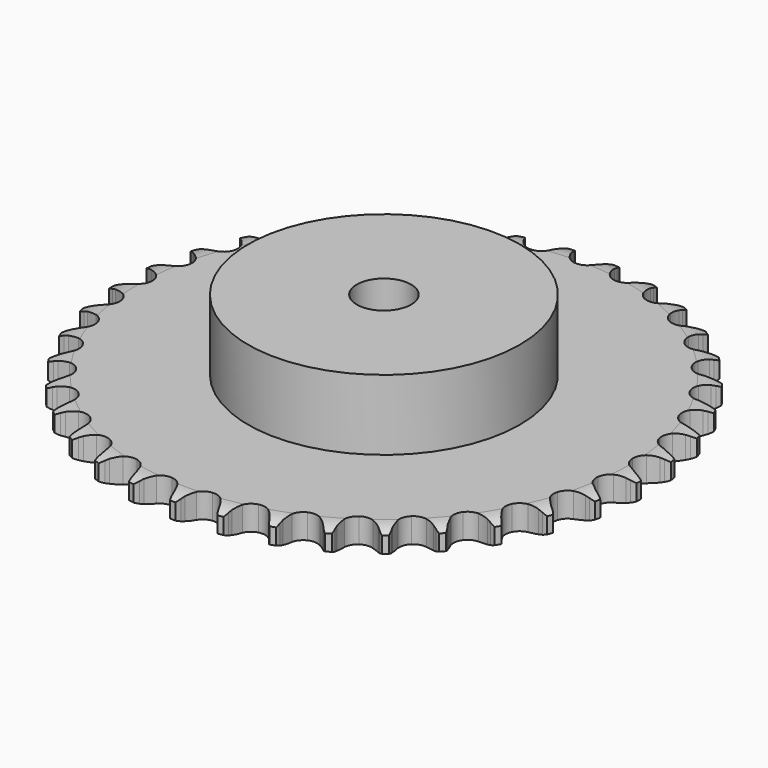
from build123d import *

# Parameters (mm, degrees)
PAD_DEPTH         = 9.1
SKETCH001_R       = 50
PAD001_DEPTH      = 35
SKETCH002_R       = 10
POCKET_DEPTH      = 0.001
POCKET_DEPTH_BACK = 35.001


with BuildPart() as part:
    # Sprocket → Pad (new body)
    with BuildSketch(Plane.XY):
        with BuildLine():
            ThreePointArc((-8.361214, 98.237154), (-7.231776, 96.838218), (-6.432471, 95.227702))
            Line((-6.432471, 95.227702), (-5.936919, 93.876112))
            ThreePointArc((-5.936919, 93.876112), (-5.153166, 92.136792), (-4.128134, 90.527815))
            ThreePointArc((-4.128134, 90.527815), (-2.310205, 89.000564), (0, 88.452555))
            ThreePointArc((0, 88.452555), (2.310205, 89.000564), (4.128134, 90.527815))
            ThreePointArc((4.128134, 90.527815), (5.153166, 92.136792), (5.936919, 93.876112))
            Line((5.936919, 93.876112), (6.432471, 95.227702))
            ThreePointArc((6.432471, 95.227702), (7.231776, 96.838218), (8.361214, 98.237154))
            ThreePointArc((8.361214, 98.237154), (9.237985, 96.667465), (9.753614, 94.945031))
            Line((9.753614, 94.945031), (10.013618, 93.529133))
            ThreePointArc((10.013618, 93.529133), (10.492151, 91.682378), (11.23052, 89.923312))
            ThreePointArc((11.23052, 89.923312), (12.764193, 88.110798), (14.948554, 87.180246))
            ThreePointArc((14.948554, 87.180246), (17.318143, 87.329945), (19.36803, 88.527996))
            Line((19.36803, 88.527996), (21.716662, 91.522445))
            ThreePointArc((21.716662, 91.522445), (22.058144, 92.156372), (22.433505, 92.770845))
            ThreePointArc((22.433505, 92.770845), (23.493492, 94.223112), (24.843105, 95.41105))
            ThreePointArc((24.843105, 95.41105), (25.441986, 93.715764), (25.659105, 91.930964))
            Line((25.659105, 91.930964), (25.676082, 90.491492))
            ThreePointArc((25.676082, 90.491492), (25.835628, 88.590428), (26.266093, 86.73188))
            ThreePointArc((26.266093, 86.73188), (27.471389, 84.686245), (29.467066, 83.399919))
            ThreePointArc((29.467066, 83.399919), (31.82787, 83.147003), (34.050742, 83.981389))
            Line((34.050742, 83.981389), (36.871656, 86.535844))
            ThreePointArc((36.871656, 86.535844), (37.31536, 87.102942), (37.789169, 87.64514))
            ThreePointArc((37.789169, 87.64514), (39.079343, 88.897379), (40.610305, 89.840143))
            ThreePointArc((40.610305, 89.840143), (40.914067, 88.068032), (40.826431, 86.272211))
            Line((40.826431, 86.272211), (40.599891, 84.850576))
            ThreePointArc((40.599891, 84.850576), (40.435861, 82.949893), (40.546038, 81.04533))
            ThreePointArc((40.546038, 81.04533), (41.388283, 78.825424), (43.137864, 77.220329))
            ThreePointArc((43.137864, 77.220329), (45.421967, 76.572073), (47.753877, 77.01879))
            Line((47.753877, 77.01879), (50.965919, 79.059765))
            ThreePointArc((50.965919, 79.059765), (51.499081, 79.543719), (52.057707, 79.998044))
            ThreePointArc((52.057707, 79.998044), (53.540952, 81.014231), (55.209221, 81.6847))
            ThreePointArc((55.209221, 81.6847), (55.209125, 79.886742), (54.819254, 78.131564))
            Line((54.819254, 78.131564), (54.355715, 76.768663))
            ThreePointArc((54.355715, 76.768663), (53.872828, 74.923041), (53.659548, 73.027253))
            ThreePointArc((53.659548, 73.027253), (54.114512, 70.696938), (55.567664, 68.819251))
            ThreePointArc((55.567664, 68.819251), (57.709356, 67.794304), (60.083219, 67.8405))
            Line((60.083219, 67.8405), (63.593986, 69.30928))
            ThreePointArc((63.593986, 69.30928), (64.201268, 69.696168), (64.828639, 70.04955))
            ThreePointArc((64.828639, 70.04955), (66.462285, 70.80045), (68.219868, 71.179336))
            ThreePointArc((68.219868, 71.179336), (67.915917, 69.407257), (67.235028, 67.743213))
            Line((67.235028, 67.743213), (66.547825, 66.478255))
            ThreePointArc((66.547825, 66.478255), (65.759972, 64.740789), (65.229369, 62.908315))
            ThreePointArc((65.229369, 62.908315), (65.283964, 60.53463), (66.398884, 58.438368))
            ThreePointArc((66.398884, 58.438368), (68.336552, 57.066216), (70.684077, 56.710563))
            Line((70.684077, 56.710563), (74.392569, 57.564893))
            ThreePointArc((74.392569, 57.564893), (75.056501, 57.843585), (75.73457, 58.085858))
            ThreePointArc((75.73457, 58.085858), (77.47162, 58.549869), (79.267953, 58.626272))
            ThreePointArc((79.267953, 58.626272), (78.668892, 56.931051), (77.716572, 55.406014))
            Line((77.716572, 55.406014), (76.825475, 54.275389))
            ThreePointArc((76.825475, 54.275389), (75.755321, 52.696062), (74.922661, 50.979619))
            ThreePointArc((74.922661, 50.979619), (74.575316, 48.630851), (75.319928, 46.376319))
            ThreePointArc((75.319928, 46.376319), (76.997831, 44.696437), (79.251483, 43.949166))
            Line((79.251483, 43.949166), (83.051014, 44.16447))
            ThreePointArc((83.051014, 44.16447), (83.752495, 44.326948), (84.461754, 44.451141))
            ThreePointArc((84.461754, 44.451141), (86.252237, 44.614915), (88.035644, 44.386638))
            ThreePointArc((88.035644, 44.386638), (87.158706, 42.817042), (85.962351, 41.474885))
            Line((85.962351, 41.474885), (84.892995, 40.511118))
            ThreePointArc((84.892995, 40.511118), (83.571327, 39.135366), (82.460564, 37.584332))
            ThreePointArc((82.460564, 37.584332), (81.721271, 35.328051), (82.074156, 32.980108))
            ThreePointArc((82.074156, 32.980108), (83.444021, 31.040823), (85.538967, 29.923432))
            Line((85.538967, 29.923432), (89.320233, 29.493514))
            ThreePointArc((89.320233, 29.493514), (90.039082, 29.535105), (90.759128, 29.537646))
            ThreePointArc((90.759128, 29.537646), (92.551535, 29.396471), (94.27071, 28.87008))
            ThreePointArc((94.27071, 28.87008), (93.141122, 27.471266), (91.735151, 26.350598))
            Line((91.735151, 26.350598), (90.518299, 25.581417))
            ThreePointArc((90.518299, 25.581417), (88.983139, 24.448817), (87.626227, 23.107813))
            ThreePointArc((87.626227, 23.107813), (86.516255, 21.008927), (86.467259, 18.63512))
            ThreePointArc((86.467259, 18.63512), (87.48968, 16.492221), (89.365652, 15.036855))
            Line((89.365652, 15.036855), (93.019871, 13.974084))
            ThreePointArc((93.019871, 13.974084), (93.735408, 13.89359), (94.445527, 13.774407))
            ThreePointArc((94.445527, 13.774407), (96.188293, 13.332345), (97.793779, 12.522983))
            ThreePointArc((97.793779, 12.522983), (96.444038, 11.33519), (94.868897, 10.468253))
            Line((94.868897, 10.468253), (93.539556, 9.915785))
            ThreePointArc((93.539556, 9.915785), (91.835068, 9.058919), (90.271043, 7.966524))
            ThreePointArc((90.271043, 7.966524), (88.822323, 6.085415), (88.372857, 3.754033))
            ThreePointArc((88.372857, 3.754033), (89.018419, 1.469167), (90.621449, -0.282305))
            Line((90.621449, -0.282305), (94.043496, -1.947354))
            ThreePointArc((94.043496, -1.947354), (94.735138, -2.147617), (95.4149, -2.385097))
            ThreePointArc((95.4149, -2.385097), (97.057889, -3.115329), (98.503499, -4.184377))
            ThreePointArc((98.503499, -4.184377), (96.972435, -5.126978), (95.273438, -5.715244))
            Line((95.273438, -5.715244), (93.869851, -6.035107))
            ThreePointArc((93.869851, -6.035107), (92.045068, -6.591587), (90.318925, -7.403948))
            ThreePointArc((90.318925, -7.403948), (88.573135, -9.013164), (87.736128, -11.235051))
            ThreePointArc((87.736128, -11.235051), (87.986261, -13.596151), (89.270232, -15.593344))
            Line((89.270232, -15.593344), (92.361662, -17.812772))
            ThreePointArc((92.361662, -17.812772), (93.00951, -18.127042), (93.639361, -18.475986))
            ThreePointArc((93.639361, -18.475986), (95.135306, -19.473381), (96.379452, -20.771361))
            ThreePointArc((96.379452, -20.771361), (94.711112, -21.441652), (92.937135, -21.734325))
            Line((92.937135, -21.734325), (91.49968, -21.812379))
            ThreePointArc((91.49968, -21.812379), (89.6071, -22.052465), (87.768497, -22.561421))
            ThreePointArc((87.768497, -22.561421), (85.775859, -23.85245), (84.575391, -25.900922))
            ThreePointArc((84.575391, -25.900922), (84.422898, -28.270333), (85.350873, -30.45579))
            Line((85.350873, -30.45579), (88.02275, -33.165748))
            ThreePointArc((88.02275, -33.165748), (88.608168, -33.584984), (89.169987, -34.035354))
            ThreePointArc((89.169987, -34.035354), (90.475854, -35.271219), (91.482745, -36.76079))
            ThreePointArc((91.482745, -36.76079), (89.725122, -37.139489), (87.9272, -37.128149))
            Line((87.9272, -37.128149), (86.497231, -36.962149))
            ThreePointArc((86.497231, -36.962149), (84.591299, -36.878934), (82.693128, -37.069843))
            ThreePointArc((82.693128, -37.069843), (80.510968, -38.005545), (78.981574, -39.821672))
            ThreePointArc((78.981574, -39.821672), (78.430842, -42.131229), (78.976125, -44.442079))
            Line((78.976125, -44.442079), (81.151584, -47.564606))
            ThreePointArc((81.151584, -47.564606), (81.65773, -48.076748), (82.135355, -48.615588))
            ThreePointArc((82.135355, -48.615588), (83.213576, -50.054368), (83.954245, -51.692679))
            ThreePointArc((83.954245, -51.692679), (82.157903, -51.76889), (80.38776, -51.453863))
            Line((80.38776, -51.453863), (79.006413, -51.048585))
            ThreePointArc((79.006413, -51.048585), (77.14196, -50.644463), (75.238829, -50.511834))
            ThreePointArc((75.238829, -50.511834), (72.929922, -51.065289), (71.115601, -52.596824))
            ThreePointArc((71.115601, -52.596824), (70.182473, -54.780086), (70.329378, -57.14985))
            Line((70.329378, -57.14985), (71.945835, -60.595116))
            ThreePointArc((71.945835, -60.595116), (72.358148, -61.185431), (72.737839, -61.797239))
            ThreePointArc((72.737839, -61.797239), (73.557396, -63.397544), (74.010534, -65.137463))
            ThreePointArc((74.010534, -65.137463), (72.227152, -64.908995), (70.53571, -64.299343))
            Line((70.53571, -64.299343), (69.242725, -63.666446))
            ThreePointArc((69.242725, -63.666446), (67.473388, -62.953043), (65.620045, -62.500691))
            ThreePointArc((65.620045, -62.500691), (63.250816, -62.655978), (61.203761, -63.858861))
            ThreePointArc((61.203761, -63.858861), (59.915083, -65.85302), (59.659382, -68.213524))
            Line((59.659382, -68.213524), (60.670336, -71.882416))
            ThreePointArc((60.670336, -71.882416), (60.976954, -72.533921), (61.247787, -73.201096))
            ThreePointArc((61.247787, -73.201096), (61.785102, -74.916889), (61.937676, -76.708361))
            ThreePointArc((61.937676, -76.708361), (60.218557, -76.181786), (58.654476, -75.295049))
            Line((58.654476, -75.295049), (57.48705, -74.452739))
            ThreePointArc((57.48705, -74.452739), (55.863728, -73.450579), (54.113493, -72.691517))
            ThreePointArc((54.113493, -72.691517), (51.752099, -72.444169), (49.531201, -73.283796))
            ThreePointArc((49.531201, -73.283796), (47.924044, -75.031482), (47.273095, -77.314819))
            Line((47.273095, -77.314819), (47.649461, -81.101789))
            ThreePointArc((47.649461, -81.101789), (47.841564, -81.795742), (47.995748, -82.499092))
            ThreePointArc((47.995748, -82.499092), (48.235364, -84.28101), (48.082983, -86.072499))
            ThreePointArc((48.082983, -86.072499), (46.477583, -85.262966), (45.08586, -84.124652))
            Line((45.08586, -84.124652), (44.077577, -83.097163))
            ThreePointArc((44.077577, -83.097163), (42.646972, -81.835075), (41.050193, -80.79114))
            ThreePointArc((41.050193, -80.79114), (38.764568, -80.148273), (36.433718, -80.600488))
            ThreePointArc((36.433718, -80.600488), (34.554318, -82.051426), (33.526846, -84.191907))
            Line((33.526846, -84.191907), (33.257798, -87.988012))
            ThreePointArc((33.257798, -87.988012), (33.329859, -88.704448), (33.362959, -89.423738))
            ThreePointArc((33.362959, -89.423738), (33.297983, -91.220521), (32.84503, -92.960488))
            ThreePointArc((32.84503, -92.960488), (31.399534, -91.891285), (30.220206, -90.534143))
            Line((30.220206, -90.534143), (29.400073, -89.351033))
            ThreePointArc((29.400073, -89.351033), (28.203339, -87.865325), (26.805955, -86.56655))
            ThreePointArc((26.805955, -86.56655), (24.661851, -85.546657), (22.288103, -85.598452))
            ThreePointArc((22.288103, -85.598452), (20.190528, -86.710899), (18.816092, -88.646948))
            Line((18.816092, -88.646948), (17.909369, -92.34298))
            ThreePointArc((17.909369, -92.34298), (17.859315, -93.061289), (17.770378, -93.775826))
            ThreePointArc((17.770378, -93.775826), (17.402679, -95.535783), (16.662185, -97.174173))
            ThreePointArc((16.662185, -97.174173), (15.418178, -95.87606), (14.485171, -94.339132))
            Line((14.485171, -94.339132), (13.876782, -93.034436))
            ThreePointArc((13.876782, -93.034436), (12.948348, -91.36785), (11.790557, -89.851597))
            ThreePointArc((11.790557, -89.851597), (9.849658, -88.484019), (7.501301, -88.133904))
            ThreePointArc((7.501301, -88.133904), (5.245892, -88.875857), (3.564033, -90.551777))
            Line((3.564033, -90.551777), (2.045719, -94.041408))
            ThreePointArc((2.045719, -94.041408), (1.874991, -94.740926), (1.666576, -95.430155))
            ThreePointArc((1.666576, -95.430155), (1.006731, -97.102655), (0, -98.592334))
            ThreePointArc((0, -98.592334), (-1.006731, -97.102655), (-1.666576, -95.430155))
            Line((-1.666576, -95.430155), (-2.045719, -94.041408))
            ThreePointArc((-2.045719, -94.041408), (-2.679144, -92.241888), (-3.564033, -90.551777))
            ThreePointArc((-3.564033, -90.551777), (-5.245892, -88.875857), (-7.501301, -88.133904))
            ThreePointArc((-7.501301, -88.133904), (-9.849658, -88.484019), (-11.790557, -89.851597))
            Line((-11.790557, -89.851597), (-13.876782, -93.034436))
            ThreePointArc((-13.876782, -93.034436), (-14.163273, -93.695039), (-14.485171, -94.339132))
            ThreePointArc((-14.485171, -94.339132), (-15.418178, -95.87606), (-16.662185, -97.174173))
            ThreePointArc((-16.662185, -97.174173), (-17.402679, -95.535783), (-17.770378, -93.775826))
            Line((-17.770378, -93.775826), (-17.909369, -92.34298))
            ThreePointArc((-17.909369, -92.34298), (-18.229562, -90.462294), (-18.816092, -88.646948))
            ThreePointArc((-18.816092, -88.646948), (-20.190528, -86.710899), (-22.288103, -85.598452))
            ThreePointArc((-22.288103, -85.598452), (-24.661851, -85.546657), (-26.805955, -86.56655))
            Line((-26.805955, -86.56655), (-29.400073, -89.351033))
            ThreePointArc((-29.400073, -89.351033), (-29.794086, -89.953716), (-30.220206, -90.534143))
            ThreePointArc((-30.220206, -90.534143), (-31.399534, -91.891285), (-32.84503, -92.960488))
            ThreePointArc((-32.84503, -92.960488), (-33.297983, -91.220521), (-33.362959, -89.423738))
            Line((-33.362959, -89.423738), (-33.257798, -87.988012))
            ThreePointArc((-33.257798, -87.988012), (-33.255548, -86.080266), (-33.526846, -84.191907))
            ThreePointArc((-33.526846, -84.191907), (-34.554318, -82.051426), (-36.433718, -80.600488))
            ThreePointArc((-36.433718, -80.600488), (-38.764568, -80.148273), (-41.050193, -80.79114))
            Line((-41.050193, -80.79114), (-44.077577, -83.097163))
            ThreePointArc((-44.077577, -83.097163), (-44.567777, -83.624589), (-45.08586, -84.124652))
            ThreePointArc((-45.08586, -84.124652), (-46.477583, -85.262966), (-48.082983, -86.072499))
            ThreePointArc((-48.082983, -86.072499), (-48.235364, -84.28101), (-47.995748, -82.499092))
            Line((-47.995748, -82.499092), (-47.649461, -81.101789))
            ThreePointArc((-47.649461, -81.101789), (-47.324833, -79.221865), (-47.273095, -77.314819))
            ThreePointArc((-47.273095, -77.314819), (-47.924044, -75.031482), (-49.531201, -73.283796))
            ThreePointArc((-49.531201, -73.283796), (-51.752099, -72.444169), (-54.113493, -72.691517))
            Line((-54.113493, -72.691517), (-57.48705, -74.452739))
            ThreePointArc((-57.48705, -74.452739), (-58.059334, -74.889735), (-58.654476, -75.295049))
            ThreePointArc((-58.654476, -75.295049), (-60.218557, -76.181786), (-61.937676, -76.708361))
            ThreePointArc((-61.937676, -76.708361), (-61.785102, -74.916889), (-61.247787, -73.201096))
            Line((-61.247787, -73.201096), (-60.670336, -71.882416))
            ThreePointArc((-60.670336, -71.882416), (-60.032668, -70.084395), (-59.659382, -68.213524))
            ThreePointArc((-59.659382, -68.213524), (-59.915083, -65.85302), (-61.203761, -63.858861))
            ThreePointArc((-61.203761, -63.858861), (-63.250816, -62.655978), (-65.620045, -62.500691))
            Line((-65.620045, -62.500691), (-69.242725, -63.666446))
            ThreePointArc((-69.242725, -63.666446), (-69.88063, -64.000439), (-70.53571, -64.299343))
            ThreePointArc((-70.53571, -64.299343), (-72.227152, -64.908995), (-74.010534, -65.137463))
            ThreePointArc((-74.010534, -65.137463), (-73.557396, -63.397544), (-72.737839, -61.797239))
            Line((-72.737839, -61.797239), (-71.945835, -60.595116))
            ThreePointArc((-71.945835, -60.595116), (-71.013473, -58.930724), (-70.329378, -57.14985))
            ThreePointArc((-70.329378, -57.14985), (-70.182473, -54.780086), (-71.115601, -52.596824))
            ThreePointArc((-71.115601, -52.596824), (-72.929922, -51.065289), (-75.238829, -50.511834))
            Line((-75.238829, -50.511834), (-79.006413, -51.048585))
            ThreePointArc((-79.006413, -51.048585), (-79.691587, -51.269967), (-80.38776, -51.453863))
            ThreePointArc((-80.38776, -51.453863), (-82.157903, -51.76889), (-83.954245, -51.692679))
            ThreePointArc((-83.954245, -51.692679), (-83.213576, -50.054368), (-82.135355, -48.615588))
            Line((-82.135355, -48.615588), (-81.151584, -47.564606))
            ThreePointArc((-81.151584, -47.564606), (-79.95135, -46.081724), (-78.976125, -44.442079))
            ThreePointArc((-78.976125, -44.442079), (-78.430842, -42.131229), (-78.981574, -39.821672))
            ThreePointArc((-78.981574, -39.821672), (-80.510968, -38.005545), (-82.693128, -37.069843))
            Line((-82.693128, -37.069843), (-86.497231, -36.962149))
            ThreePointArc((-86.497231, -36.962149), (-87.209963, -37.064552), (-87.9272, -37.128149))
            ThreePointArc((-87.9272, -37.128149), (-89.725122, -37.139489), (-91.482745, -36.76079))
            ThreePointArc((-91.482745, -36.76079), (-90.475854, -35.271219), (-89.169987, -34.035354))
            Line((-89.169987, -34.035354), (-88.02275, -33.165748))
            ThreePointArc((-88.02275, -33.165748), (-86.589172, -31.907037), (-85.350873, -30.45579))
            ThreePointArc((-85.350873, -30.45579), (-84.422898, -28.270333), (-84.575391, -25.900922))
            ThreePointArc((-84.575391, -25.900922), (-85.775859, -23.85245), (-87.768497, -22.561421))
            Line((-87.768497, -22.561421), (-91.49968, -21.812379))
            ThreePointArc((-91.49968, -21.812379), (-92.219467, -21.792856), (-92.937135, -21.734325))
            ThreePointArc((-92.937135, -21.734325), (-94.711112, -21.441652), (-96.379452, -20.771361))
            ThreePointArc((-96.379452, -20.771361), (-95.135306, -19.473381), (-93.639361, -18.475986))
            Line((-93.639361, -18.475986), (-92.361662, -17.812772))
            ThreePointArc((-92.361662, -17.812772), (-90.735981, -16.814442), (-89.270232, -15.593344))
            ThreePointArc((-89.270232, -15.593344), (-87.986261, -13.596151), (-87.736128, -11.235051))
            ThreePointArc((-87.736128, -11.235051), (-88.573135, -9.013164), (-90.318925, -7.403948))
            Line((-90.318925, -7.403948), (-93.869851, -6.035107))
            ThreePointArc((-93.869851, -6.035107), (-94.575984, -5.894221), (-95.273438, -5.715244))
            ThreePointArc((-95.273438, -5.715244), (-96.972435, -5.126978), (-98.503499, -4.184377))
            ThreePointArc((-98.503499, -4.184377), (-97.057889, -3.115329), (-95.4149, -2.385097))
            Line((-95.4149, -2.385097), (-94.043496, -1.947354))
            ThreePointArc((-94.043496, -1.947354), (-92.272481, -1.238127), (-90.621449, -0.282305))
            ThreePointArc((-90.621449, -0.282305), (-89.018419, 1.469167), (-88.372857, 3.754033))
            ThreePointArc((-88.372857, 3.754033), (-88.822323, 6.085415), (-90.271043, 7.966524))
            Line((-90.271043, 7.966524), (-93.539556, 9.915785))
            ThreePointArc((-93.539556, 9.915785), (-94.211723, 10.173981), (-94.868897, 10.468253))
            ThreePointArc((-94.868897, 10.468253), (-96.444038, 11.33519), (-97.793779, 12.522983))
            ThreePointArc((-97.793779, 12.522983), (-96.188293, 13.332345), (-94.445527, 13.774407))
            Line((-94.445527, 13.774407), (-93.019871, 13.974084))
            ThreePointArc((-93.019871, 13.974084), (-91.154469, 14.373808), (-89.365652, 15.036855))
            ThreePointArc((-89.365652, 15.036855), (-87.48968, 16.492221), (-86.467259, 18.63512))
            ThreePointArc((-86.467259, 18.63512), (-86.516255, 21.008927), (-87.626227, 23.107813))
            Line((-87.626227, 23.107813), (-90.518299, 25.581417))
            ThreePointArc((-90.518299, 25.581417), (-91.137162, 25.949496), (-91.735151, 26.350598))
            ThreePointArc((-91.735151, 26.350598), (-93.141122, 27.471266), (-94.27071, 28.87008))
            ThreePointArc((-94.27071, 28.87008), (-92.551535, 29.396471), (-90.759128, 29.537646))
            Line((-90.759128, 29.537646), (-89.320233, 29.493514))
            ThreePointArc((-89.320233, 29.493514), (-87.41411, 29.572234), (-85.538967, 29.923432))
            ThreePointArc((-85.538967, 29.923432), (-83.444021, 31.040823), (-82.074156, 32.980108))
            ThreePointArc((-82.074156, 32.980108), (-81.721271, 35.328051), (-82.460564, 37.584332))
            Line((-82.460564, 37.584332), (-84.892995, 40.511118))
            ThreePointArc((-84.892995, 40.511118), (-85.440751, 40.978492), (-85.962351, 41.474885))
            ThreePointArc((-85.962351, 41.474885), (-87.158706, 42.817042), (-88.035644, 44.386638))
            ThreePointArc((-88.035644, 44.386638), (-86.252237, 44.614915), (-84.461754, 44.451141))
            Line((-84.461754, 44.451141), (-83.051014, 44.16447))
            ThreePointArc((-83.051014, 44.16447), (-81.159006, 43.91992), (-79.251483, 43.949166))
            ThreePointArc((-79.251483, 43.949166), (-76.997831, 44.696437), (-75.319928, 46.376319))
            ThreePointArc((-75.319928, 46.376319), (-74.575316, 48.630851), (-74.922661, 50.979619))
            Line((-74.922661, 50.979619), (-76.825475, 54.275389))
            ThreePointArc((-76.825475, 54.275389), (-77.286364, 54.82861), (-77.716572, 55.406014))
            ThreePointArc((-77.716572, 55.406014), (-78.668892, 56.931051), (-79.267953, 58.626272))
            ThreePointArc((-79.267953, 58.626272), (-77.47162, 58.549869), (-75.73457, 58.085858))
            Line((-75.73457, 58.085858), (-74.392569, 57.564893))
            ThreePointArc((-74.392569, 57.564893), (-72.569105, 57.004111), (-70.684077, 56.710563))
            ThreePointArc((-70.684077, 56.710563), (-68.336552, 57.066216), (-66.398884, 58.438368))
            ThreePointArc((-66.398884, 58.438368), (-65.283964, 60.53463), (-65.229369, 62.908315))
            Line((-65.229369, 62.908315), (-66.547825, 66.478255))
            ThreePointArc((-66.547825, 66.478255), (-66.90859, 67.10141), (-67.235028, 67.743213))
            ThreePointArc((-67.235028, 67.743213), (-67.915917, 69.407257), (-68.219868, 71.179336))
            ThreePointArc((-68.219868, 71.179336), (-66.462285, 70.80045), (-64.828639, 70.04955))
            Line((-64.828639, 70.04955), (-63.593986, 69.30928))
            ThreePointArc((-63.593986, 69.30928), (-61.891523, 68.448397), (-60.083219, 67.8405))
            ThreePointArc((-60.083219, 67.8405), (-57.709356, 67.794304), (-55.567664, 68.819251))
            ThreePointArc((-55.567664, 68.819251), (-54.114512, 70.696938), (-53.659548, 73.027253))
            Line((-53.659548, 73.027253), (-54.355715, 76.768663))
            ThreePointArc((-54.355715, 76.768663), (-54.605978, 77.443824), (-54.819254, 78.131564))
            ThreePointArc((-54.819254, 78.131564), (-55.209125, 79.886742), (-55.209221, 81.6847))
            ThreePointArc((-55.209221, 81.6847), (-53.540952, 81.014231), (-52.057707, 79.998044))
            Line((-52.057707, 79.998044), (-50.965919, 79.059765))
            ThreePointArc((-50.965919, 79.059765), (-49.433435, 77.923547), (-47.753877, 77.01879))
            ThreePointArc((-47.753877, 77.01879), (-45.421967, 76.572073), (-43.137864, 77.220329))
            ThreePointArc((-43.137864, 77.220329), (-41.388283, 78.825424), (-40.546038, 81.04533))
            Line((-40.546038, 81.04533), (-40.599891, 84.850576))
            ThreePointArc((-40.599891, 84.850576), (-40.732451, 85.55832), (-40.826431, 86.272211))
            ThreePointArc((-40.826431, 86.272211), (-40.914067, 88.068032), (-40.610305, 89.840143))
            ThreePointArc((-40.610305, 89.840143), (-39.079343, 88.897379), (-37.789169, 87.64514))
            Line((-37.789169, 87.64514), (-36.871656, 86.535844))
            ThreePointArc((-36.871656, 86.535844), (-35.553236, 85.156979), (-34.050742, 83.981389))
            ThreePointArc((-34.050742, 83.981389), (-31.82787, 83.147003), (-29.467066, 83.399919))
            ThreePointArc((-29.467066, 83.399919), (-27.471389, 84.686245), (-26.266093, 86.73188))
            Line((-26.266093, 86.73188), (-25.676082, 90.491492))
            ThreePointArc((-25.676082, 90.491492), (-25.687125, 91.211459), (-25.659105, 91.930964))
            ThreePointArc((-25.659105, 91.930964), (-25.441986, 93.715764), (-24.843105, 95.41105))
            ThreePointArc((-24.843105, 95.41105), (-23.493492, 94.223112), (-22.433505, 92.770845))
            Line((-22.433505, 92.770845), (-21.716662, 91.522445))
            ThreePointArc((-21.716662, 91.522445), (-20.650236, 89.940599), (-19.36803, 88.527996))
            ThreePointArc((-19.36803, 88.527996), (-17.318143, 87.329945), (-14.948554, 87.180246))
            ThreePointArc((-14.948554, 87.180246), (-12.764193, 88.110798), (-11.23052, 89.923312))
            Line((-11.23052, 89.923312), (-10.013618, 93.529133))
            ThreePointArc((-10.013618, 93.529133), (-9.902828, 94.24061), (-9.753614, 94.945031))
            ThreePointArc((-9.753614, 94.945031), (-9.237985, 96.667465), (-8.361214, 98.237154))
        make_face()
    extrude(amount=PAD_DEPTH)

    # Sketch → Groove (revolve, cut)
    with BuildSketch(Plane.XZ):
        with BuildLine():
            Line((90.125762, 0), (97.1, 0))
            Line((104.074238, 0), (97.1, 0))
            Line((104.074238, 9.1), (104.074238, 0))
            Line((97.1, 9.1), (104.074238, 9.1))
            Line((90.125762, 9.1), (97.1, 9.1))
            ThreePointArc((97.1, 7.5), (93.70347, 8.694871), (90.125762, 9.1))
            Line((97.1, 1.6), (97.1, 7.5))
            ThreePointArc((90.125762, 0), (93.70347, 0.405129), (97.1, 1.6))
        make_face()
    revolve(axis=Axis((0, 0, 0), (0, 0, 1)), mode=Mode.SUBTRACT)

    # Sketch001 → Pad001 (join)
    with BuildSketch(Plane.XY):
        Circle(SKETCH001_R)
    extrude(amount=PAD001_DEPTH)

    # Sketch002 → Pocket (cut, two sides)
    with BuildSketch(Plane.XY) as pocket_sk:
        Circle(SKETCH002_R)
    extrude(amount=-POCKET_DEPTH, mode=Mode.SUBTRACT)
    extrude(pocket_sk.sketch, amount=POCKET_DEPTH_BACK, mode=Mode.SUBTRACT)


solid = part.part
